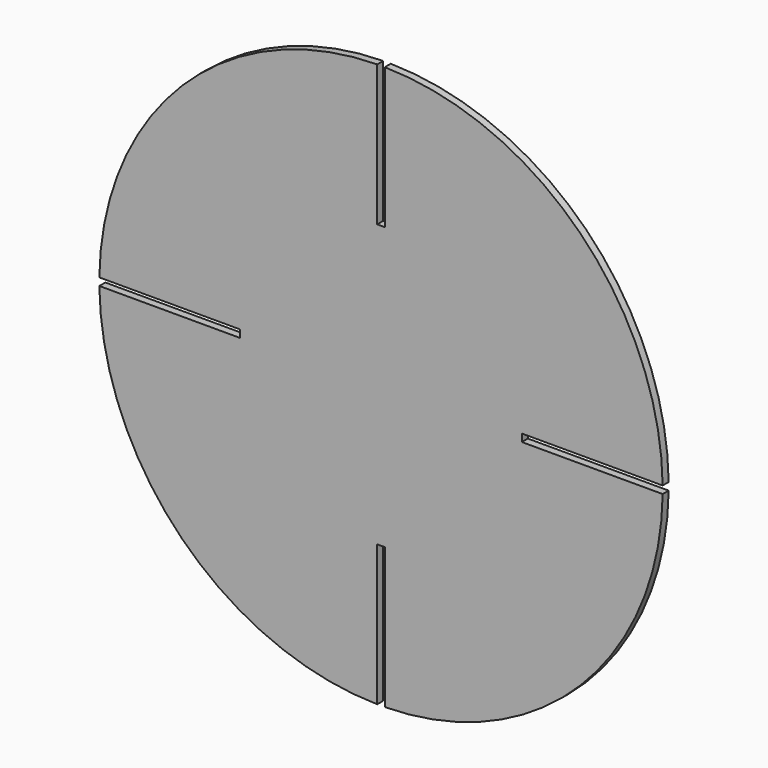
from build123d import *

# Parameters (mm, degrees)
F1_DEPTH = 2


with BuildPart() as f1:
    # F0 (on Front) → F1 (new body)
    with BuildSketch(Plane.XZ):
        with BuildLine():
            Line((-1, 37.5), (-1, 74.993333))
            ThreePointArc((-1, 74.993333), (-53.033009, 53.033009), (-74.993333, 1))
            Line((-74.993333, 1), (-37.5, 1))
            Line((-37.5, 1), (-37.5, 0))
            Line((-37.5, 0), (-37.5, -1))
            Line((-37.5, -1), (-74.993333, -1))
            ThreePointArc((-74.993333, -1), (-53.033009, -53.033009), (-1, -74.993333))
            Line((-1, -74.993333), (-1, -37.5))
            Line((-1, -37.5), (1, -37.5))
            Line((1, -37.5), (1, -74.993333))
            ThreePointArc((1, -74.993333), (53.033009, -53.033009), (74.993333, -1))
            Line((74.993333, -1), (37.5, -1))
            Line((37.5, -1), (37.5, 0))
            Line((37.5, 0), (37.5, 1))
            Line((37.5, 1), (74.993333, 1))
            ThreePointArc((74.993333, 1), (53.033009, 53.033009), (1, 74.993333))
            Line((1, 74.993333), (1, 37.5))
            Line((1, 37.5), (-1, 37.5))
        make_face()
    extrude(amount=F1_DEPTH)


solid = f1.part
